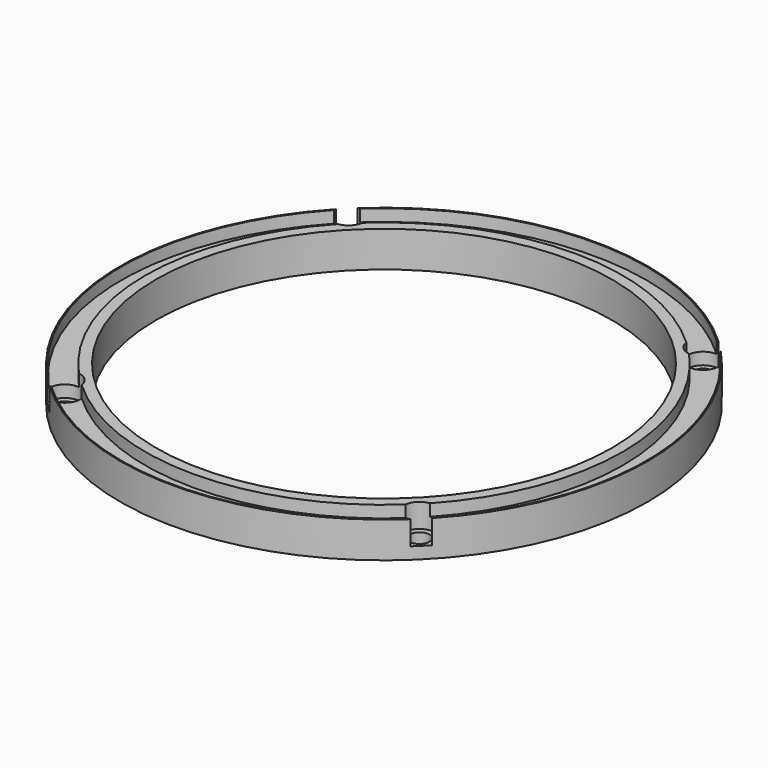
from build123d import *

# Parameters (mm, degrees)
F0_R     = 110.5
F0_R_2   = 95.5
F1_DEPTH = 15
F2_R     = 110
F2_R_2   = 100
F3_DEPTH = 5
F4_R     = 4.15
F5_DEPTH = 25
F6_R     = 6.5
F7_DEPTH = 10


with BuildPart() as f1:
    # F0 (on Top) → F1 (new body)
    with BuildSketch(Plane.XY):
        Circle(F0_R)
        Circle(F0_R_2, mode=Mode.SUBTRACT)
    extrude(amount=F1_DEPTH)

    # F2 (on face) → F3 (cut)
    with BuildSketch(Plane.XY.offset(15)):
        Circle(F2_R)
        Circle(F2_R_2, mode=Mode.SUBTRACT)
    extrude(amount=-F3_DEPTH, mode=Mode.SUBTRACT)

    # F4 (on face) → F5 (cut)
    with BuildSketch(Plane(origin=(0, 0, 0), x_dir=(1, 0, 0), z_dir=(0, 0, -1))):
        with Locations((-74.2462, 74.246224)):
            Circle(F4_R)
        with Locations((-74.2462, -74.246176)):
            Circle(F4_R)
        with Locations((74.2462, 74.246224)):
            Circle(F4_R)
        with Locations((74.2462, -74.246176)):
            Circle(F4_R)
    extrude(amount=-F5_DEPTH, mode=Mode.SUBTRACT)

    # F6 (on face) → F7 (cut)
    with BuildSketch(Plane.XY.offset(15)):
        with Locations((-74.2462, 74.246176)):
            Circle(F6_R)
        with Locations((74.2462, 74.246176)):
            Circle(F6_R)
        with Locations((74.2462, -74.246224)):
            Circle(F6_R)
        with Locations((-74.2462, -74.246224)):
            Circle(F6_R)
    extrude(amount=-F7_DEPTH, mode=Mode.SUBTRACT)


solid = f1.part
